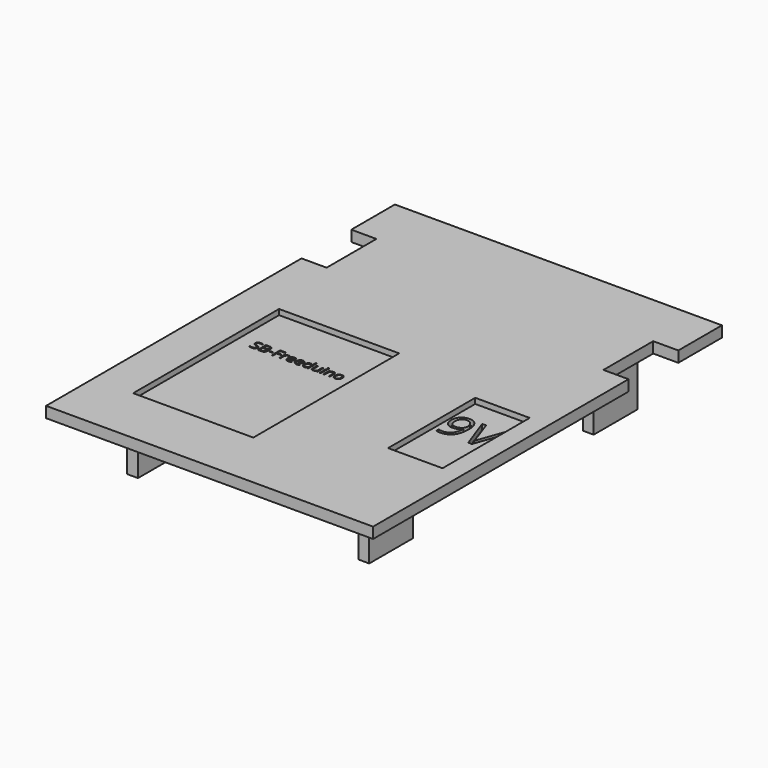
from build123d import *

# Parameters (mm, degrees)
F0_W     = 5.08
F0_H     = 25.4
F0_W_2   = 25.4
F0_H_2   = 50.8
F0_H_3   = 5.4511331439
F1_DEPTH = 5.08
F0_H_4   = 19.9488668561
F0_W_3   = 1.6381901918
F0_H_5   = 0.5072622824
F0_W_4   = 0.5542507885
F0_H_6   = 3.6576280359
F2_DEPTH = 2.54
F3_DEPTH = 25.4


with BuildPart() as f1:
    # F0 (on Top) → F1 (new body)
    with BuildSketch(Plane.XY):
        Polygon((-92.1847084433, -89.134238112), (60.2152915567, -89.134238112), (60.2152915567, 59.658961888), (48.5058915567, 59.658961888), (48.5058915567, 88.665761888), (60.2152915567, 88.665761888), (60.2152915567, 114.065761888), (-92.1847084433, 114.065761888), (-92.1847084433, 88.665761888), (-80.4847084433, 88.665761888), (-80.4847084433, 59.665761888), (-92.1847084433, 59.665761888), align=None)
        Polygon((-17.6637479365, 23.4345453978), (-17.6637479365, -61.5654546022), (-67.0487580514, -61.5654546022), (-67.0487580514, -67.0165877461), (-72.1287580514, -67.0165877461), (-72.1287580514, -61.5654546022), (-73.6637479365, -61.5654546022), (-73.6637479365, 23.4345453978), align=None, mode=Mode.SUBTRACT)
        with Locations((38.1576158106, -54.2921125889)):
            Rectangle(F0_W, F0_H, mode=Mode.SUBTRACT)
        with Locations((38.5011146232, -12.019370495)):
            Rectangle(F0_W_2, F0_H_2, mode=Mode.SUBTRACT)
        with Locations((-69.1344922101, 75.8215125322)):
            Rectangle(F0_W, F0_H, mode=Mode.SUBTRACT)
        with Locations((38.5336019099, 76.0002359748)):
            Rectangle(F0_W, F0_H, mode=Mode.SUBTRACT)
        with Locations((38.5336019099, 76.0002359748)):
            Rectangle(F0_W, F0_H)
        with Locations((-69.1344922101, 75.8215125322)):
            Rectangle(F0_W, F0_H)
        with Locations((38.1576158106, -54.2921125889)):
            Rectangle(F0_W, F0_H)
        with Locations((-69.5887580514, -64.2910211742)):
            Rectangle(F0_W, F0_H_3)
    extrude(amount=F1_DEPTH)

    # F0 (on Top) → F2 (join)
    with BuildSketch(Plane.XY):
        with Locations((38.5011146232, -12.019370495)):
            Rectangle(F0_W_2, F0_H_2)
        with BuildLine():
            add(Edge.make_bspline(
                [(35.8815281714, -0.1023465193), (36.4856763383, -1.5764680467), (36.4856763383, -3.5806288991)],
                knots=[0, 0, 0, 1, 1, 1], degree=2))
            add(Edge.make_bspline(
                [(36.4856763383, -3.5806288991), (36.4856763383, -12.2223642791), (29.7997699575, -12.2223642791)],
                knots=[0, 0, 0, 1, 1, 1], degree=2))
            add(Edge.make_bspline(
                [(29.7997699575, -12.2223642791), (28.6301391063, -12.2223642791), (27.9470489122, -12.019370495)],
                knots=[0, 0, 0, 1, 1, 1], degree=2))
            Line((27.9470489122, -12.019370495), (27.9470489122, -10.579081265))
            add(Edge.make_bspline(
                [(27.9470489122, -10.579081265), (28.7525798015, -10.8400732731), (29.7772150926, -10.8400732731)],
                knots=[0, 0, 0, 1, 1, 1], degree=2))
            add(Edge.make_bspline(
                [(29.7772150926, -10.8400732731), (32.1938077604, -10.8400732731), (33.4278810827, -9.3450079427)],
                knots=[0, 0, 0, 1, 1, 1], degree=2))
            add(Edge.make_bspline(
                [(33.4278810827, -9.3450079427), (34.661954405, -7.8499426122), (34.771506606, -4.759926121)],
                knots=[0, 0, 0, 1, 1, 1], degree=2))
            Line((34.771506606, -4.759926121), (34.6522880344, -4.759926121))
            add(Edge.make_bspline(
                [(34.6522880344, -4.759926121), (34.0980827826, -5.5944561223), (33.1813886306, -6.032664926)],
                knots=[0, 0, 0, 1, 1, 1], degree=2))
            add(Edge.make_bspline(
                [(33.1813886306, -6.032664926), (32.2646944786, -6.4708737298), (31.1176184923, -6.4708737298)],
                knots=[0, 0, 0, 1, 1, 1], degree=2))
            add(Edge.make_bspline(
                [(31.1176184923, -6.4708737298), (29.1650116168, -6.4708737298), (28.0163245687, -5.3028539404)],
                knots=[0, 0, 0, 1, 1, 1], degree=2))
            add(Edge.make_bspline(
                [(28.0163245687, -5.3028539404), (26.8676375206, -4.134834151), (26.8676375206, -2.0404538389)],
                knots=[0, 0, 0, 1, 1, 1], degree=2))
            add(Edge.make_bspline(
                [(26.8676375206, -2.0404538389), (26.8676375206, 0.2536981337), (28.1516537581, 1.582824101)],
                knots=[0, 0, 0, 1, 1, 1], degree=2))
            add(Edge.make_bspline(
                [(28.1516537581, 1.582824101), (29.4356699956, 2.9119500682), (31.5300503076, 2.9119500682)],
                knots=[0, 0, 0, 1, 1, 1], degree=2))
            add(Edge.make_bspline(
                [(31.5300503076, 2.9119500682), (33.0315598852, 2.9119500682), (34.1544699448, 2.1418625381)],
                knots=[0, 0, 0, 1, 1, 1], degree=2))
            add(Edge.make_bspline(
                [(34.1544699448, 2.1418625381), (35.2773800044, 1.371775008), (35.8815281714, -0.1023465193)],
                knots=[0, 0, 0, 1, 1, 1], degree=2))
        make_face(mode=Mode.SUBTRACT)
        with BuildLine():
            Line((44.6602038025, -6.7640869735), (48.024100796, 2.702512037))
            Line((48.024100796, 2.702512037), (49.8639333471, 2.702512037))
            Line((49.8639333471, 2.702512037), (44.5603179722, -12.019370495))
            Line((44.5603179722, -12.019370495), (42.8687031048, -12.019370495))
            Line((42.8687031048, -12.019370495), (37.5908647184, 2.702512037))
            Line((37.5908647184, 2.702512037), (39.404920281, 2.702512037))
            Line((39.404920281, 2.702512037), (42.7881500159, -6.8220851975))
            add(Edge.make_bspline(
                [(42.7881500159, -6.8220851975), (43.3713543797, -8.4653682116), (43.7128994767, -10.0152096425)],
                knots=[0, 0, 0, 1, 1, 1], degree=2))
            add(Edge.make_bspline(
                [(43.7128994767, -10.0152096425), (44.0769994387, -8.3848151227), (44.6602038025, -6.7640869735)],
                knots=[0, 0, 0, 1, 1, 1], degree=2))
        make_face(mode=Mode.SUBTRACT)
        with Locations((-69.5887580514, -51.5910211742)):
            Rectangle(F0_W, F0_H_4)
        Polygon((-67.0487580514, -61.5654546022), (-17.6637479365, -61.5654546022), (-17.6637479365, 23.4345453978), (-73.6637479365, 23.4345453978), (-73.6637479365, -61.5654546022), (-72.1287580514, -61.5654546022), (-72.1287580514, -41.6165877461), (-67.0487580514, -41.6165877461), align=None)
        with BuildLine():
            add(Edge.make_bspline(
                [(-63.9588295999, -0.7092905564), (-63.6704910394, -1.0232592112), (-63.6704910394, -1.5230460493)],
                knots=[0, 0, 0, 1, 1, 1], degree=2))
            add(Edge.make_bspline(
                [(-63.6704910394, -1.5230460493), (-63.6704910394, -2.1670021678), (-64.1377062994, -2.5279593287)],
                knots=[0, 0, 0, 1, 1, 1], degree=2))
            add(Edge.make_bspline(
                [(-64.1377062994, -2.5279593287), (-64.6049215595, -2.8889164896), (-65.4058620053, -2.8889164896)],
                knots=[0, 0, 0, 1, 1, 1], degree=2))
            add(Edge.make_bspline(
                [(-65.4058620053, -2.8889164896), (-66.273013528, -2.8889164896), (-66.7407627483, -2.6646531648)],
                knots=[0, 0, 0, 1, 1, 1], degree=2))
            Line((-66.7407627483, -2.6646531648), (-66.7407627483, -2.1178778204))
            add(Edge.make_bspline(
                [(-66.7407627483, -2.1178778204), (-66.4396091407, -2.2438924506), (-66.086127424, -2.3175789716)],
                knots=[0, 0, 0, 1, 1, 1], degree=2))
            add(Edge.make_bspline(
                [(-66.086127424, -2.3175789716), (-65.7326457072, -2.3912654926), (-65.385571514, -2.3912654926)],
                knots=[0, 0, 0, 1, 1, 1], degree=2))
            add(Edge.make_bspline(
                [(-65.385571514, -2.3912654926), (-64.8185056784, -2.3912654926), (-64.5312350385, -2.1760794928)],
                knots=[0, 0, 0, 1, 1, 1], degree=2))
            add(Edge.make_bspline(
                [(-64.5312350385, -2.1760794928), (-64.2439643986, -1.9608934931), (-64.2439643986, -1.5764420791)],
                knots=[0, 0, 0, 1, 1, 1], degree=2))
            add(Edge.make_bspline(
                [(-64.2439643986, -1.5764420791), (-64.2439643986, -1.3233448982), (-64.3459508153, -1.1615549281)],
                knots=[0, 0, 0, 1, 1, 1], degree=2))
            add(Edge.make_bspline(
                [(-64.3459508153, -1.1615549281), (-64.4479372321, -0.9997649581), (-64.686617485, -0.8625371617)],
                knots=[0, 0, 0, 1, 1, 1], degree=2))
            add(Edge.make_bspline(
                [(-64.686617485, -0.8625371617), (-64.9252977378, -0.7253093653), (-65.4122695289, -0.552306229)],
                knots=[0, 0, 0, 1, 1, 1], degree=2))
            add(Edge.make_bspline(
                [(-65.4122695289, -0.552306229), (-66.0925349475, -0.3088203335), (-66.3846112301, 0.0249048523)],
                knots=[0, 0, 0, 1, 1, 1], degree=2))
            add(Edge.make_bspline(
                [(-66.3846112301, 0.0249048523), (-66.6766875127, 0.358630038), (-66.6766875127, 0.895794097)],
                knots=[0, 0, 0, 1, 1, 1], degree=2))
            add(Edge.make_bspline(
                [(-66.6766875127, 0.895794097), (-66.6766875127, 1.4596561709), (-66.253256997, 1.7933813566)],
                knots=[0, 0, 0, 1, 1, 1], degree=2))
            add(Edge.make_bspline(
                [(-66.253256997, 1.7933813566), (-65.8298264813, 2.1271065424), (-65.1314064125, 2.1271065424)],
                knots=[0, 0, 0, 1, 1, 1], degree=2))
            add(Edge.make_bspline(
                [(-65.1314064125, 2.1271065424), (-64.4041524877, 2.1271065424), (-63.7933019077, 1.8601263938)],
                knots=[0, 0, 0, 1, 1, 1], degree=2))
            Line((-63.7933019077, 1.8601263938), (-63.9705767264, 1.3667470792))
            add(Edge.make_bspline(
                [(-63.9705767264, 1.3667470792), (-64.5750197829, 1.61984426), (-65.1452893803, 1.61984426)],
                knots=[0, 0, 0, 1, 1, 1], degree=2))
            add(Edge.make_bspline(
                [(-65.1452893803, 1.61984426), (-65.5959518711, 1.61984426), (-65.8495830123, 1.4265506325)],
                knots=[0, 0, 0, 1, 1, 1], degree=2))
            add(Edge.make_bspline(
                [(-65.8495830123, 1.4265506325), (-66.1032141535, 1.2332570049), (-66.1032141535, 0.8893865735)],
                knots=[0, 0, 0, 1, 1, 1], degree=2))
            add(Edge.make_bspline(
                [(-66.1032141535, 0.8893865735), (-66.1032141535, 0.6362893926), (-66.0097711015, 0.4739654622)],
                knots=[0, 0, 0, 1, 1, 1], degree=2))
            add(Edge.make_bspline(
                [(-66.0097711015, 0.4739654622), (-65.9163280494, 0.3116415319), (-65.6942005658, 0.1765495767)],
                knots=[0, 0, 0, 1, 1, 1], degree=2))
            add(Edge.make_bspline(
                [(-65.6942005658, 0.1765495767), (-65.4720730822, 0.0414576215), (-65.0150030678, -0.1219342295)],
                knots=[0, 0, 0, 1, 1, 1], degree=2))
            add(Edge.make_bspline(
                [(-65.0150030678, -0.1219342295), (-64.2471681604, -0.3953219016), (-63.9588295999, -0.7092905564)],
                knots=[0, 0, 0, 1, 1, 1], degree=2))
        make_face(mode=Mode.SUBTRACT)
        with BuildLine():
            Line((-62.6719852836, -2.8216374922), (-62.6719852836, 2.0576917038))
            Line((-62.6719852836, 2.0576917038), (-61.2932997962, 2.0576917038))
            add(Edge.make_bspline(
                [(-61.2932997962, 2.0576917038), (-60.3225599759, 2.0576917038), (-59.8884502542, 1.7672173021)],
                knots=[0, 0, 0, 1, 1, 1], degree=2))
            add(Edge.make_bspline(
                [(-59.8884502542, 1.7672173021), (-59.4543405326, 1.4767429004), (-59.4543405326, 0.8498735115)],
                knots=[0, 0, 0, 1, 1, 1], degree=2))
            add(Edge.make_bspline(
                [(-59.4543405326, 0.8498735115), (-59.4543405326, 0.4152298295), (-59.6962245472, 0.1332987926)],
                knots=[0, 0, 0, 1, 1, 1], degree=2))
            add(Edge.make_bspline(
                [(-59.6962245472, 0.1332987926), (-59.9381085619, -0.1486322443), (-60.4026540204, -0.2319300507)],
                knots=[0, 0, 0, 1, 1, 1], degree=2))
            Line((-60.4026540204, -0.2319300507), (-60.4026540204, -0.2650355891))
            add(Edge.make_bspline(
                [(-60.4026540204, -0.2650355891), (-59.2909486816, -0.4551254549), (-59.2909486816, -1.4333407194)],
                knots=[0, 0, 0, 1, 1, 1], degree=2))
            add(Edge.make_bspline(
                [(-59.2909486816, -1.4333407194), (-59.2909486816, -2.0869081232), (-59.7330678077, -2.4542728077)],
                knots=[0, 0, 0, 1, 1, 1], degree=2))
            add(Edge.make_bspline(
                [(-59.7330678077, -2.4542728077), (-60.1751869338, -2.8216374922), (-60.9697198561, -2.8216374922)],
                knots=[0, 0, 0, 1, 1, 1], degree=2))
            Line((-60.9697198561, -2.8216374922), (-62.6719852836, -2.8216374922))
        make_face(mode=Mode.SUBTRACT)
        with Locations((-57.8140144996, -0.9896197124)):
            Rectangle(F0_W_3, F0_H_5, mode=Mode.SUBTRACT)
        Polygon((-55.477404239, -0.7359885713), (-55.477404239, -2.8216374922), (-56.0444700746, -2.8216374922), (-56.0444700746, 2.0576917038), (-53.3244763206, 2.0576917038), (-53.3244763206, 1.5536331832), (-55.477404239, 1.5536331832), (-55.477404239, -0.2319300507), (-53.4547626331, -0.2319300507), (-53.4547626331, -0.7359885713), align=None, mode=Mode.SUBTRACT)
        with BuildLine():
            add(Edge.make_bspline(
                [(-51.5624073398, 0.7094419533), (-51.2751366999, 0.9032695412), (-50.9312662685, 0.9032695412)],
                knots=[0, 0, 0, 1, 1, 1], degree=2))
            add(Edge.make_bspline(
                [(-50.9312662685, 0.9032695412), (-50.687780373, 0.9032695412), (-50.4944867454, 0.8626885586)],
                knots=[0, 0, 0, 1, 1, 1], degree=2))
            Line((-50.4944867454, 0.8626885586), (-50.5713770282, 0.3490187527))
            add(Edge.make_bspline(
                [(-50.5713770282, 0.3490187527), (-50.7977761942, 0.3992110206), (-50.9718472511, 0.3992110206)],
                knots=[0, 0, 0, 1, 1, 1], degree=2))
            add(Edge.make_bspline(
                [(-50.9718472511, 0.3992110206), (-51.4161022184, 0.3992110206), (-51.7311387937, 0.03878782)],
                knots=[0, 0, 0, 1, 1, 1], degree=2))
            add(Edge.make_bspline(
                [(-51.7311387937, 0.03878782), (-52.0461753691, -0.3216353806), (-52.0461753691, -0.8587994396)],
                knots=[0, 0, 0, 1, 1, 1], degree=2))
            Line((-52.0461753691, -0.8587994396), (-52.0461753691, -2.8216374922))
            Line((-52.0461753691, -2.8216374922), (-52.6004261576, -2.8216374922))
            Line((-52.6004261576, -2.8216374922), (-52.6004261576, 0.8359905437))
            Line((-52.6004261576, 0.8359905437), (-52.1433561432, 0.8359905437))
            Line((-52.1433561432, 0.8359905437), (-52.0792809075, 0.1589288869))
            Line((-52.0792809075, 0.1589288869), (-52.0525828926, 0.1589288869))
            add(Edge.make_bspline(
                [(-52.0525828926, 0.1589288869), (-51.8496779797, 0.5156143654), (-51.5624073398, 0.7094419533)],
                knots=[0, 0, 0, 1, 1, 1], degree=2))
        make_face(mode=Mode.SUBTRACT)
        with BuildLine():
            add(Edge.make_bspline(
                [(-47.6324595523, -2.8333846187), (-47.8941000979, -2.8889164896), (-48.2646685442, -2.8889164896)],
                knots=[0, 0, 0, 1, 1, 1], degree=2))
            add(Edge.make_bspline(
                [(-48.2646685442, -2.8889164896), (-49.0752202754, -2.8889164896), (-49.5445713766, -2.3944692544)],
                knots=[0, 0, 0, 1, 1, 1], degree=2))
            add(Edge.make_bspline(
                [(-49.5445713766, -2.3944692544), (-50.0139224779, -1.9000220192), (-50.0139224779, -1.0232592112)],
                knots=[0, 0, 0, 1, 1, 1], degree=2))
            add(Edge.make_bspline(
                [(-50.0139224779, -1.0232592112), (-50.0139224779, -0.1379530384), (-49.5782108753, 0.3826582514)],
                knots=[0, 0, 0, 1, 1, 1], degree=2))
            add(Edge.make_bspline(
                [(-49.5782108753, 0.3826582514), (-49.1424992728, 0.9032695412), (-48.4077699039, 0.9032695412)],
                knots=[0, 0, 0, 1, 1, 1], degree=2))
            add(Edge.make_bspline(
                [(-48.4077699039, 0.9032695412), (-47.7210969616, 0.9032695412), (-47.3206267387, 0.4510051695)],
                knots=[0, 0, 0, 1, 1, 1], degree=2))
            add(Edge.make_bspline(
                [(-47.3206267387, 0.4510051695), (-46.9201565158, -0.0012592023), (-46.9201565158, -0.7423960948)],
                knots=[0, 0, 0, 1, 1, 1], degree=2))
            Line((-46.9201565158, -0.7423960948), (-46.9201565158, -1.0926740498))
            Line((-46.9201565158, -1.0926740498), (-49.4393811981, -1.0926740498))
            add(Edge.make_bspline(
                [(-49.4393811981, -1.0926740498), (-49.4222944686, -1.7366301682), (-49.1136654168, -2.070355354)],
                knots=[0, 0, 0, 1, 1, 1], degree=2))
            add(Edge.make_bspline(
                [(-49.1136654168, -2.070355354), (-48.805036365, -2.4040805397), (-48.2443780529, -2.4040805397)],
                knots=[0, 0, 0, 1, 1, 1], degree=2))
            add(Edge.make_bspline(
                [(-48.2443780529, -2.4040805397), (-47.6538179642, -2.4040805397), (-47.0771408432, -2.1573908824)],
                knots=[0, 0, 0, 1, 1, 1], degree=2))
            Line((-47.0771408432, -2.1573908824), (-47.0771408432, -2.6518381176))
            add(Edge.make_bspline(
                [(-47.0771408432, -2.6518381176), (-47.3708190067, -2.7778527478), (-47.6324595523, -2.8333846187)],
                knots=[0, 0, 0, 1, 1, 1], degree=2))
        make_face(mode=Mode.SUBTRACT)
        with BuildLine():
            add(Edge.make_bspline(
                [(-43.7975566977, -2.8333846187), (-44.0591972434, -2.8889164896), (-44.4297656896, -2.8889164896)],
                knots=[0, 0, 0, 1, 1, 1], degree=2))
            add(Edge.make_bspline(
                [(-44.4297656896, -2.8889164896), (-45.2403174208, -2.8889164896), (-45.709668522, -2.3944692544)],
                knots=[0, 0, 0, 1, 1, 1], degree=2))
            add(Edge.make_bspline(
                [(-45.709668522, -2.3944692544), (-46.1790196233, -1.9000220192), (-46.1790196233, -1.0232592112)],
                knots=[0, 0, 0, 1, 1, 1], degree=2))
            add(Edge.make_bspline(
                [(-46.1790196233, -1.0232592112), (-46.1790196233, -0.1379530384), (-45.7433080208, 0.3826582514)],
                knots=[0, 0, 0, 1, 1, 1], degree=2))
            add(Edge.make_bspline(
                [(-45.7433080208, 0.3826582514), (-45.3075964182, 0.9032695412), (-44.5728670493, 0.9032695412)],
                knots=[0, 0, 0, 1, 1, 1], degree=2))
            add(Edge.make_bspline(
                [(-44.5728670493, 0.9032695412), (-43.8861941071, 0.9032695412), (-43.4857238842, 0.4510051695)],
                knots=[0, 0, 0, 1, 1, 1], degree=2))
            add(Edge.make_bspline(
                [(-43.4857238842, 0.4510051695), (-43.0852536612, -0.0012592023), (-43.0852536612, -0.7423960948)],
                knots=[0, 0, 0, 1, 1, 1], degree=2))
            Line((-43.0852536612, -0.7423960948), (-43.0852536612, -1.0926740498))
            Line((-43.0852536612, -1.0926740498), (-45.6044783435, -1.0926740498))
            add(Edge.make_bspline(
                [(-45.6044783435, -1.0926740498), (-45.587391614, -1.7366301682), (-45.2787625622, -2.070355354)],
                knots=[0, 0, 0, 1, 1, 1], degree=2))
            add(Edge.make_bspline(
                [(-45.2787625622, -2.070355354), (-44.9701335104, -2.4040805397), (-44.4094751983, -2.4040805397)],
                knots=[0, 0, 0, 1, 1, 1], degree=2))
            add(Edge.make_bspline(
                [(-44.4094751983, -2.4040805397), (-43.8189151096, -2.4040805397), (-43.2422379886, -2.1573908824)],
                knots=[0, 0, 0, 1, 1, 1], degree=2))
            Line((-43.2422379886, -2.1573908824), (-43.2422379886, -2.6518381176))
            add(Edge.make_bspline(
                [(-43.2422379886, -2.6518381176), (-43.5359161521, -2.7778527478), (-43.7975566977, -2.8333846187)],
                knots=[0, 0, 0, 1, 1, 1], degree=2))
        make_face(mode=Mode.SUBTRACT)
        with BuildLine():
            Line((-39.5771345086, -2.8216374922), (-39.6508210296, -2.3314619393))
            Line((-39.6508210296, -2.3314619393), (-39.6807228062, -2.3314619393))
            add(Edge.make_bspline(
                [(-39.6807228062, -2.3314619393), (-40.0641062996, -2.8889164896), (-40.8287374452, -2.8889164896)],
                knots=[0, 0, 0, 1, 1, 1], degree=2))
            add(Edge.make_bspline(
                [(-40.8287374452, -2.8889164896), (-41.5463800847, -2.8889164896), (-41.9452484267, -2.3982069765)],
                knots=[0, 0, 0, 1, 1, 1], degree=2))
            add(Edge.make_bspline(
                [(-41.9452484267, -2.3982069765), (-42.3441167687, -1.9074974633), (-42.3441167687, -1.0029687199)],
                knots=[0, 0, 0, 1, 1, 1], degree=2))
            add(Edge.make_bspline(
                [(-42.3441167687, -1.0029687199), (-42.3441167687, -0.0984399764), (-41.9436465458, 0.4024147824)],
                knots=[0, 0, 0, 1, 1, 1], degree=2))
            add(Edge.make_bspline(
                [(-41.9436465458, 0.4024147824), (-41.5431763229, 0.9032695412), (-40.8287374452, 0.9032695412)],
                knots=[0, 0, 0, 1, 1, 1], degree=2))
            add(Edge.make_bspline(
                [(-40.8287374452, 0.9032695412), (-40.0843967909, 0.9032695412), (-39.6871303298, 0.3618337998)],
                knots=[0, 0, 0, 1, 1, 1], degree=2))
            Line((-39.6871303298, 0.3618337998), (-39.6433455854, 0.3618337998))
            Line((-39.6433455854, 0.3618337998), (-39.6668398385, 0.6256101866))
            Line((-39.6668398385, 0.6256101866), (-39.6807228062, 0.8829790499))
            Line((-39.6807228062, 0.8829790499), (-39.6807228062, 2.3716603585))
            Line((-39.6807228062, 2.3716603585), (-39.1264720177, 2.3716603585))
            Line((-39.1264720177, 2.3716603585), (-39.1264720177, -2.8216374922))
            Line((-39.1264720177, -2.8216374922), (-39.5771345086, -2.8216374922))
        make_face(mode=Mode.SUBTRACT)
        with BuildLine():
            Line((-37.9912724258, 0.8359905437), (-37.4306141138, 0.8359905437))
            Line((-37.4306141138, 0.8359905437), (-37.4306141138, -1.5369290171))
            add(Edge.make_bspline(
                [(-37.4306141138, -1.5369290171), (-37.4306141138, -1.9843877461), (-37.2271752405, -2.2043793886)],
                knots=[0, 0, 0, 1, 1, 1], degree=2))
            add(Edge.make_bspline(
                [(-37.2271752405, -2.2043793886), (-37.0237363673, -2.424371031), (-36.590160606, -2.424371031)],
                knots=[0, 0, 0, 1, 1, 1], degree=2))
            add(Edge.make_bspline(
                [(-36.590160606, -2.424371031), (-36.0156193262, -2.424371031), (-35.7507750187, -2.1109363366)],
                knots=[0, 0, 0, 1, 1, 1], degree=2))
            add(Edge.make_bspline(
                [(-35.7507750187, -2.1109363366), (-35.4859307113, -1.7975016421), (-35.4859307113, -1.0862665262)],
                knots=[0, 0, 0, 1, 1, 1], degree=2))
            Line((-35.4859307113, -1.0862665262), (-35.4859307113, 0.8359905437))
            Line((-35.4859307113, 0.8359905437), (-34.9316799228, 0.8359905437))
            Line((-34.9316799228, 0.8359905437), (-34.9316799228, -2.8216374922))
            Line((-34.9316799228, -2.8216374922), (-35.3887499372, -2.8216374922))
            Line((-35.3887499372, -2.8216374922), (-35.4688439818, -2.3314619393))
            Line((-35.4688439818, -2.3314619393), (-35.4987457585, -2.3314619393))
            add(Edge.make_bspline(
                [(-35.4987457585, -2.3314619393), (-35.668545133, -2.6016458497), (-35.9707666612, -2.7452811697)],
                knots=[0, 0, 0, 1, 1, 1], degree=2))
            add(Edge.make_bspline(
                [(-35.9707666612, -2.7452811697), (-36.2729881894, -2.8889164896), (-36.6606433652, -2.8889164896)],
                knots=[0, 0, 0, 1, 1, 1], degree=2))
            add(Edge.make_bspline(
                [(-36.6606433652, -2.8889164896), (-37.3280937367, -2.8889164896), (-37.6596830813, -2.5717440731)],
                knots=[0, 0, 0, 1, 1, 1], degree=2))
            add(Edge.make_bspline(
                [(-37.6596830813, -2.5717440731), (-37.9912724258, -2.2545716565), (-37.9912724258, -1.5572195084)],
                knots=[0, 0, 0, 1, 1, 1], degree=2))
            Line((-37.9912724258, -1.5572195084), (-37.9912724258, 0.8359905437))
        make_face(mode=Mode.SUBTRACT)
        with Locations((-33.4798418747, -0.9928234742)):
            Rectangle(F0_W_4, F0_H_6, mode=Mode.SUBTRACT)
        with BuildLine():
            Line((-28.9705471647, -2.8216374922), (-29.5247979532, -2.8216374922))
            Line((-29.5247979532, -2.8216374922), (-29.5247979532, -0.4551254549))
            add(Edge.make_bspline(
                [(-29.5247979532, -0.4551254549), (-29.5247979532, -0.0087346464), (-29.7282368265, 0.2117909563)],
                knots=[0, 0, 0, 1, 1, 1], degree=2))
            add(Edge.make_bspline(
                [(-29.7282368265, 0.2117909563), (-29.9316756997, 0.432316559), (-30.3663193817, 0.432316559)],
                knots=[0, 0, 0, 1, 1, 1], degree=2))
            add(Edge.make_bspline(
                [(-30.3663193817, 0.432316559), (-30.9397927409, 0.432316559), (-31.2067728895, 0.1220856264)],
                knots=[0, 0, 0, 1, 1, 1], degree=2))
            add(Edge.make_bspline(
                [(-31.2067728895, 0.1220856264), (-31.4737530381, -0.1881453063), (-31.4737530381, -0.902584184)],
                knots=[0, 0, 0, 1, 1, 1], degree=2))
            Line((-31.4737530381, -0.902584184), (-31.4737530381, -2.8216374922))
            Line((-31.4737530381, -2.8216374922), (-32.0280038266, -2.8216374922))
            Line((-32.0280038266, -2.8216374922), (-32.0280038266, 0.8359905437))
            Line((-32.0280038266, 0.8359905437), (-31.5773413357, 0.8359905437))
            Line((-31.5773413357, 0.8359905437), (-31.4876360058, 0.335135785))
            Line((-31.4876360058, 0.335135785), (-31.4609379909, 0.335135785))
            add(Edge.make_bspline(
                [(-31.4609379909, 0.335135785), (-31.2900706958, 0.6053196953), (-30.9830435249, 0.7542946183)],
                knots=[0, 0, 0, 1, 1, 1], degree=2))
            add(Edge.make_bspline(
                [(-30.9830435249, 0.7542946183), (-30.676016354, 0.9032695412), (-30.2990403842, 0.9032695412)],
                knots=[0, 0, 0, 1, 1, 1], degree=2))
            add(Edge.make_bspline(
                [(-30.2990403842, 0.9032695412), (-29.6379975363, 0.9032695412), (-29.3042723505, 0.5844952438)],
                knots=[0, 0, 0, 1, 1, 1], degree=2))
            add(Edge.make_bspline(
                [(-29.3042723505, 0.5844952438), (-28.9705471647, 0.2657209463), (-28.9705471647, -0.4359028842)],
                knots=[0, 0, 0, 1, 1, 1], degree=2))
            Line((-28.9705471647, -0.4359028842), (-28.9705471647, -2.8216374922))
        make_face(mode=Mode.SUBTRACT)
        with BuildLine():
            add(Edge.make_bspline(
                [(-25.1287028263, 0.3922695368), (-24.6764384546, -0.1187304677), (-24.6764384546, -0.9890857521)],
                knots=[0, 0, 0, 1, 1, 1], degree=2))
            add(Edge.make_bspline(
                [(-24.6764384546, -0.9890857521), (-24.6764384546, -1.8840032103), (-25.1265669851, -2.3864598499)],
                knots=[0, 0, 0, 1, 1, 1], degree=2))
            add(Edge.make_bspline(
                [(-25.1265669851, -2.3864598499), (-25.5766955157, -2.8889164896), (-26.3712284379, -2.8889164896)],
                knots=[0, 0, 0, 1, 1, 1], degree=2))
            add(Edge.make_bspline(
                [(-26.3712284379, -2.8889164896), (-26.8624719113, -2.8889164896), (-27.242651643, -2.6582456412)],
                knots=[0, 0, 0, 1, 1, 1], degree=2))
            add(Edge.make_bspline(
                [(-27.242651643, -2.6582456412), (-27.6228313746, -2.4275747928), (-27.8300079699, -1.9972027933)],
                knots=[0, 0, 0, 1, 1, 1], degree=2))
            add(Edge.make_bspline(
                [(-27.8300079699, -1.9972027933), (-28.0371845652, -1.5668307937), (-28.0371845652, -0.9890857521)],
                knots=[0, 0, 0, 1, 1, 1], degree=2))
            add(Edge.make_bspline(
                [(-28.0371845652, -0.9890857521), (-28.0371845652, -0.0952362146), (-27.5897258362, 0.4040166633)],
                knots=[0, 0, 0, 1, 1, 1], degree=2))
            add(Edge.make_bspline(
                [(-27.5897258362, 0.4040166633), (-27.1422671071, 0.9032695412), (-26.3477341848, 0.9032695412)],
                knots=[0, 0, 0, 1, 1, 1], degree=2))
            add(Edge.make_bspline(
                [(-26.3477341848, 0.9032695412), (-25.580967198, 0.9032695412), (-25.1287028263, 0.3922695368)],
                knots=[0, 0, 0, 1, 1, 1], degree=2))
        make_face(mode=Mode.SUBTRACT)
        with BuildLine():
            add(Edge.make_bspline(
                [(-33.7105127231, 1.5482935802), (-33.8039557751, 1.6401347513), (-33.8039557751, 1.8270208554)],
                knots=[0, 0, 0, 1, 1, 1], degree=2))
            add(Edge.make_bspline(
                [(-33.8039557751, 1.8270208554), (-33.8039557751, 2.0171107212), (-33.7105127231, 2.1057481305)],
                knots=[0, 0, 0, 1, 1, 1], degree=2))
            add(Edge.make_bspline(
                [(-33.7105127231, 2.1057481305), (-33.6170696711, 2.1943855399), (-33.4761041526, 2.1943855399)],
                knots=[0, 0, 0, 1, 1, 1], degree=2))
            add(Edge.make_bspline(
                [(-33.4761041526, 2.1943855399), (-33.3426140783, 2.1943855399), (-33.2459672645, 2.1041462496)],
                knots=[0, 0, 0, 1, 1, 1], degree=2))
            add(Edge.make_bspline(
                [(-33.2459672645, 2.1041462496), (-33.1493204507, 2.0139069594), (-33.1493204507, 1.8270208554)],
                knots=[0, 0, 0, 1, 1, 1], degree=2))
            add(Edge.make_bspline(
                [(-33.1493204507, 1.8270208554), (-33.1493204507, 1.6401347513), (-33.2459672645, 1.5482935802)],
                knots=[0, 0, 0, 1, 1, 1], degree=2))
            add(Edge.make_bspline(
                [(-33.2459672645, 1.5482935802), (-33.3426140783, 1.4564524091), (-33.4761041526, 1.4564524091)],
                knots=[0, 0, 0, 1, 1, 1], degree=2))
            add(Edge.make_bspline(
                [(-33.4761041526, 1.4564524091), (-33.6170696711, 1.4564524091), (-33.7105127231, 1.5482935802)],
                knots=[0, 0, 0, 1, 1, 1], degree=2))
        make_face(mode=Mode.SUBTRACT)
    extrude(amount=F2_DEPTH)

    # F0 (on Top) → F3 (join)
    with BuildSketch(Plane.XY):
        with Locations((38.5336019099, 76.0002359748)):
            Rectangle(F0_W, F0_H)
        with Locations((-69.1344922101, 75.8215125322)):
            Rectangle(F0_W, F0_H)
        with Locations((38.1576158106, -54.2921125889)):
            Rectangle(F0_W, F0_H)
        with Locations((-69.5887580514, -51.5910211742)):
            Rectangle(F0_W, F0_H_4)
        with Locations((-69.5887580514, -64.2910211742)):
            Rectangle(F0_W, F0_H_3)
    extrude(amount=-F3_DEPTH)


with BuildPart() as f2:
    # F0 (on Top) → F2, piece 2 (new body)
    with BuildSketch(Plane.XY):
        with BuildLine():
            add(Edge.make_bspline(
                [(33.2264983604, 0.9706206251), (32.4870210041, 1.4845493325), (31.5300503076, 1.4845493325)],
                knots=[0, 0, 0, 1, 1, 1], degree=2))
            add(Edge.make_bspline(
                [(31.5300503076, 1.4845493325), (30.0897610776, 1.4845493325), (29.3051739915, 0.5581888098)],
                knots=[0, 0, 0, 1, 1, 1], degree=2))
            add(Edge.make_bspline(
                [(29.3051739915, 0.5581888098), (28.5205869054, -0.3681717128), (28.5205869054, -2.0211210976)],
                knots=[0, 0, 0, 1, 1, 1], degree=2))
            add(Edge.make_bspline(
                [(28.5205869054, -2.0211210976), (28.5205869054, -3.4710766982), (29.2455647057, -4.3007735141)],
                knots=[0, 0, 0, 1, 1, 1], degree=2))
            add(Edge.make_bspline(
                [(29.2455647057, -4.3007735141), (29.970542506, -5.1304703301), (31.4494972187, -5.1304703301)],
                knots=[0, 0, 0, 1, 1, 1], degree=2))
            add(Edge.make_bspline(
                [(31.4494972187, -5.1304703301), (32.3678024324, -5.1304703301), (33.1378899626, -4.7583150592)],
                knots=[0, 0, 0, 1, 1, 1], degree=2))
            add(Edge.make_bspline(
                [(33.1378899626, -4.7583150592), (33.9079774927, -4.3861597884), (34.3510194818, -3.741735077)],
                knots=[0, 0, 0, 1, 1, 1], degree=2))
            add(Edge.make_bspline(
                [(34.3510194818, -3.741735077), (34.7940614709, -3.0973103656), (34.7940614709, -2.3916653066)],
                knots=[0, 0, 0, 1, 1, 1], degree=2))
            add(Edge.make_bspline(
                [(34.7940614709, -2.3916653066), (34.7940614709, -1.3348087799), (34.3800185938, -0.4390584311)],
                knots=[0, 0, 0, 1, 1, 1], degree=2))
            add(Edge.make_bspline(
                [(34.3800185938, -0.4390584311), (33.9659757167, 0.4566919178), (33.2264983604, 0.9706206251)],
                knots=[0, 0, 0, 1, 1, 1], degree=2))
        make_face()
    extrude(amount=F2_DEPTH)


with BuildPart() as f2b:
    # F0 (on Top) → F2, piece 3 (new body)
    with BuildSketch(Plane.XY):
        with BuildLine():
            Line((-62.1049194479, 1.5664482303), (-62.1049194479, -0.0311609789))
            Line((-62.1049194479, -0.0311609789), (-61.1704889278, -0.0311609789))
            add(Edge.make_bspline(
                [(-61.1704889278, -0.0311609789), (-60.5692496332, -0.0311609789), (-60.3054732463, 0.157327006)],
                knots=[0, 0, 0, 1, 1, 1], degree=2))
            add(Edge.make_bspline(
                [(-60.3054732463, 0.157327006), (-60.0416968595, 0.3458149909), (-60.0416968595, 0.7922057994)],
                knots=[0, 0, 0, 1, 1, 1], degree=2))
            add(Edge.make_bspline(
                [(-60.0416968595, 0.7922057994), (-60.0416968595, 1.2033552282), (-60.335375023, 1.3849017293)],
                knots=[0, 0, 0, 1, 1, 1], degree=2))
            add(Edge.make_bspline(
                [(-60.335375023, 1.3849017293), (-60.6290531865, 1.5664482303), (-61.2698055431, 1.5664482303)],
                knots=[0, 0, 0, 1, 1, 1], degree=2))
            Line((-61.2698055431, 1.5664482303), (-62.1049194479, 1.5664482303))
        make_face()
    extrude(amount=F2_DEPTH)


with BuildPart() as f2c:
    # F0 (on Top) → F2, piece 4 (new body)
    with BuildSketch(Plane.XY):
        with BuildLine():
            Line((-61.133111707, -0.5117252464), (-62.1049194479, -0.5117252464))
            Line((-62.1049194479, -0.5117252464), (-62.1049194479, -2.3378694629))
            Line((-62.1049194479, -2.3378694629), (-61.0861232009, -2.3378694629))
            add(Edge.make_bspline(
                [(-61.0861232009, -2.3378694629), (-60.4955631122, -2.3378694629), (-60.197079306, -2.1093344557)],
                knots=[0, 0, 0, 1, 1, 1], degree=2))
            add(Edge.make_bspline(
                [(-60.197079306, -2.1093344557), (-59.8985954999, -1.8807994485), (-59.8985954999, -1.3927597368)],
                knots=[0, 0, 0, 1, 1, 1], degree=2))
            add(Edge.make_bspline(
                [(-59.8985954999, -1.3927597368), (-59.8985954999, -0.9388934842), (-60.2040207899, -0.7253093653)],
                knots=[0, 0, 0, 1, 1, 1], degree=2))
            add(Edge.make_bspline(
                [(-60.2040207899, -0.7253093653), (-60.5094460799, -0.5117252464), (-61.133111707, -0.5117252464)],
                knots=[0, 0, 0, 1, 1, 1], degree=2))
        make_face()
    extrude(amount=F2_DEPTH)


with BuildPart() as f2d:
    # F0 (on Top) → F2, piece 5 (new body)
    with BuildSketch(Plane.XY):
        with BuildLine():
            add(Edge.make_bspline(
                [(-47.7472610162, 0.1599968075), (-47.9806016661, 0.4387240826), (-48.415245348, 0.4387240826)],
                knots=[0, 0, 0, 1, 1, 1], degree=2))
            add(Edge.make_bspline(
                [(-48.415245348, 0.4387240826), (-48.8552286329, 0.4387240826), (-49.1174031389, 0.151987403)],
                knots=[0, 0, 0, 1, 1, 1], degree=2))
            add(Edge.make_bspline(
                [(-49.1174031389, 0.151987403), (-49.3795776448, -0.1347492766), (-49.4265661509, -0.6420115589)],
                knots=[0, 0, 0, 1, 1, 1], degree=2))
            Line((-49.4265661509, -0.6420115589), (-47.5139203663, -0.6420115589))
            add(Edge.make_bspline(
                [(-47.5139203663, -0.6420115589), (-47.5139203663, -0.1187304677), (-47.7472610162, 0.1599968075)],
                knots=[0, 0, 0, 1, 1, 1], degree=2))
        make_face()
    extrude(amount=F2_DEPTH)


with BuildPart() as f2e:
    # F0 (on Top) → F2, piece 6 (new body)
    with BuildSketch(Plane.XY):
        with BuildLine():
            add(Edge.make_bspline(
                [(-43.9123581616, 0.1599968075), (-44.1456988115, 0.4387240826), (-44.5803424934, 0.4387240826)],
                knots=[0, 0, 0, 1, 1, 1], degree=2))
            add(Edge.make_bspline(
                [(-44.5803424934, 0.4387240826), (-45.0203257783, 0.4387240826), (-45.2825002843, 0.151987403)],
                knots=[0, 0, 0, 1, 1, 1], degree=2))
            add(Edge.make_bspline(
                [(-45.2825002843, 0.151987403), (-45.5446747902, -0.1347492766), (-45.5916632964, -0.6420115589)],
                knots=[0, 0, 0, 1, 1, 1], degree=2))
            Line((-45.5916632964, -0.6420115589), (-43.6790175117, -0.6420115589))
            add(Edge.make_bspline(
                [(-43.6790175117, -0.6420115589), (-43.6790175117, -0.1187304677), (-43.9123581616, 0.1599968075)],
                knots=[0, 0, 0, 1, 1, 1], degree=2))
        make_face()
    extrude(amount=F2_DEPTH)


with BuildPart() as f2f:
    # F0 (on Top) → F2, piece 7 (new body)
    with BuildSketch(Plane.XY):
        with BuildLine():
            add(Edge.make_bspline(
                [(-41.512740586, -2.0671515922), (-41.255905683, -2.424371031), (-40.758254686, -2.424371031)],
                knots=[0, 0, 0, 1, 1, 1], degree=2))
            add(Edge.make_bspline(
                [(-40.758254686, -2.424371031), (-40.1911888504, -2.424371031), (-39.9359558283, -2.1157419792)],
                knots=[0, 0, 0, 1, 1, 1], degree=2))
            add(Edge.make_bspline(
                [(-39.9359558283, -2.1157419792), (-39.6807228062, -1.8071129275), (-39.6807228062, -1.1193720646)],
                knots=[0, 0, 0, 1, 1, 1], degree=2))
            Line((-39.6807228062, -1.1193720646), (-39.6807228062, -1.0029687199))
            add(Edge.make_bspline(
                [(-39.6807228062, -1.0029687199), (-39.6807228062, -0.2255225271), (-39.9391595901, 0.1066007778)],
                knots=[0, 0, 0, 1, 1, 1], degree=2))
            add(Edge.make_bspline(
                [(-39.9391595901, 0.1066007778), (-40.1975963739, 0.4387240826), (-40.7646622096, 0.4387240826)],
                knots=[0, 0, 0, 1, 1, 1], degree=2))
            add(Edge.make_bspline(
                [(-40.7646622096, 0.4387240826), (-41.2527019212, 0.4387240826), (-41.5111387051, 0.0601462319)],
                knots=[0, 0, 0, 1, 1, 1], degree=2))
            add(Edge.make_bspline(
                [(-41.5111387051, 0.0601462319), (-41.7695754889, -0.3184316188), (-41.7695754889, -1.0093762434)],
                knots=[0, 0, 0, 1, 1, 1], degree=2))
            add(Edge.make_bspline(
                [(-41.7695754889, -1.0093762434), (-41.7695754889, -1.7099321534), (-41.512740586, -2.0671515922)],
                knots=[0, 0, 0, 1, 1, 1], degree=2))
        make_face()
    extrude(amount=F2_DEPTH)


with BuildPart() as f2g:
    # F0 (on Top) → F2, piece 8 (new body)
    with BuildSketch(Plane.XY):
        with BuildLine():
            add(Edge.make_bspline(
                [(-27.1855178912, 0.0750971202), (-27.4626432854, -0.2821223186), (-27.4626432854, -0.9890857521)],
                knots=[0, 0, 0, 1, 1, 1], degree=2))
            add(Edge.make_bspline(
                [(-27.4626432854, -0.9890857521), (-27.4626432854, -1.6907095827), (-27.1823141294, -2.0575403069)],
                knots=[0, 0, 0, 1, 1, 1], degree=2))
            add(Edge.make_bspline(
                [(-27.1823141294, -2.0575403069), (-26.9019849733, -2.424371031), (-26.3584133908, -2.424371031)],
                knots=[0, 0, 0, 1, 1, 1], degree=2))
            add(Edge.make_bspline(
                [(-26.3584133908, -2.424371031), (-25.8137738876, -2.424371031), (-25.5318428507, -2.0591421877)],
                knots=[0, 0, 0, 1, 1, 1], degree=2))
            add(Edge.make_bspline(
                [(-25.5318428507, -2.0591421877), (-25.2499118138, -1.6939133444), (-25.2499118138, -0.9890857521)],
                knots=[0, 0, 0, 1, 1, 1], degree=2))
            add(Edge.make_bspline(
                [(-25.2499118138, -0.9890857521), (-25.2499118138, -0.291733604), (-25.5318428507, 0.0702914775)],
                knots=[0, 0, 0, 1, 1, 1], degree=2))
            add(Edge.make_bspline(
                [(-25.5318428507, 0.0702914775), (-25.8137738876, 0.432316559), (-26.3648209143, 0.432316559)],
                knots=[0, 0, 0, 1, 1, 1], degree=2))
            add(Edge.make_bspline(
                [(-26.3648209143, 0.432316559), (-26.9083924969, 0.432316559), (-27.1855178912, 0.0750971202)],
                knots=[0, 0, 0, 1, 1, 1], degree=2))
        make_face()
    extrude(amount=F2_DEPTH)


solid = Compound([f1.part, f2.part, f2b.part, f2c.part, f2d.part, f2e.part, f2f.part, f2g.part])
